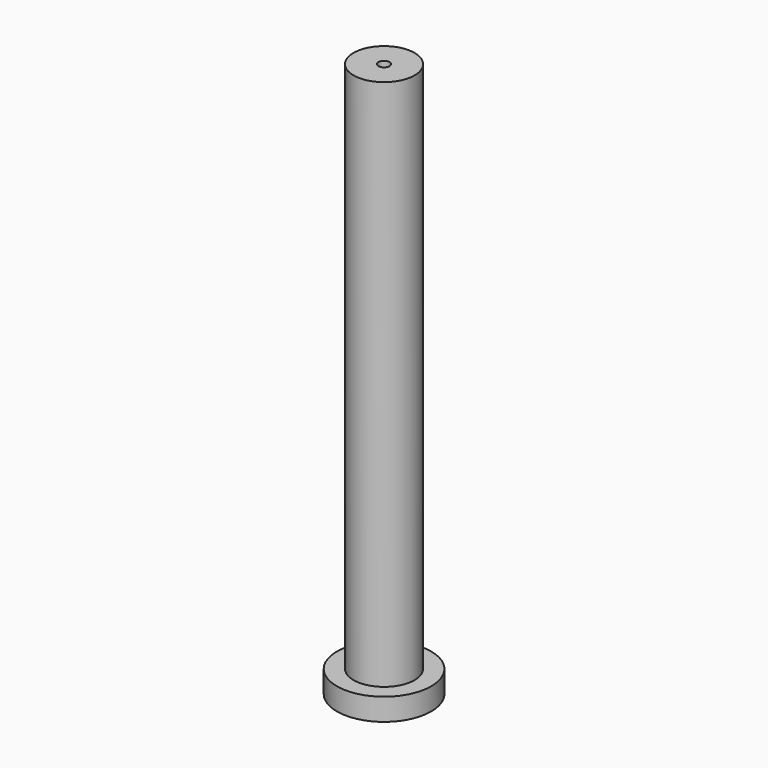
from build123d import *

# Parameters (mm, degrees)
F0_R     = 8.5
F1_DEPTH = 4
F2_R     = 5.5
F3_DEPTH = 100
F4_R     = 1
F5_DEPTH = 114.9
F6_R     = 1.5
F7_DEPTH = 80


with BuildPart() as f1:
    # F0 (on Top) → F1 (new body)
    with BuildSketch(Plane.XY):
        Circle(F0_R)
    extrude(amount=F1_DEPTH)

    # F2 (on Top) → F3 (join)
    with BuildSketch(Plane.XY):
        Circle(F2_R)
    extrude(amount=F3_DEPTH)

    # F4 (on face) → F5 (cut)
    with BuildSketch(Plane.XY.offset(100)):
        Circle(F4_R)
    extrude(amount=-F5_DEPTH, mode=Mode.SUBTRACT)

    # F6 (on Top) → F7 (cut)
    with BuildSketch(Plane.XY):
        Circle(F6_R)
    extrude(amount=F7_DEPTH, mode=Mode.SUBTRACT)


solid = f1.part
